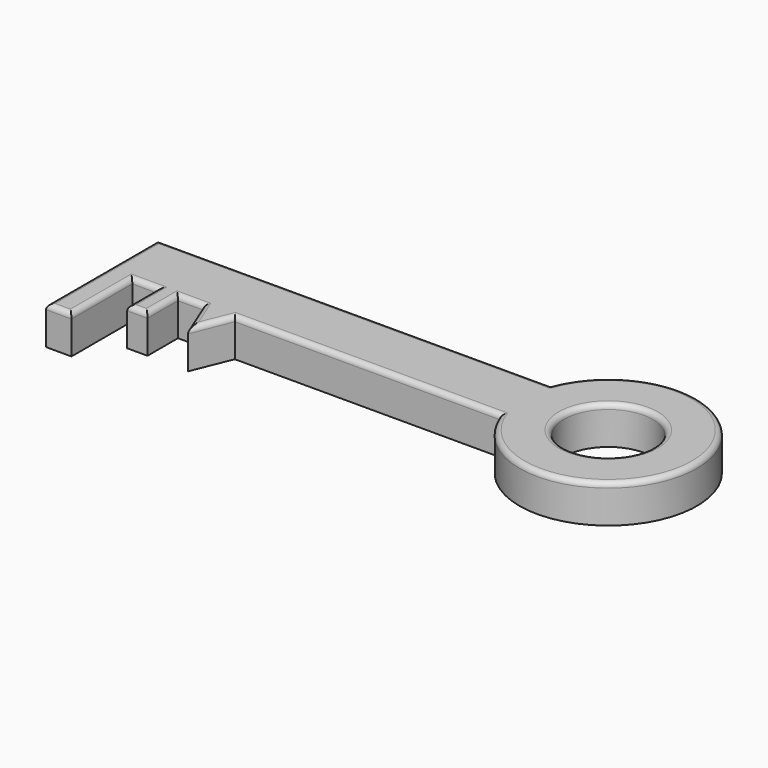
from build123d import *

# Parameters (mm, degrees)
F0_R     = 17.5
F0_W     = 10
F0_H     = 30
F0_W_2   = 8
F0_H_2   = 15
F1_DEPTH = 15
F2_R     = 2


with BuildPart() as f1:
    # F0 (on Top) → F1 (new body)
    with BuildSketch(Plane.XY):
        Polygon((70.049999, 32.850001), (-84.950001, 32.850001), (-84.950001, 7.850001), (-74.950001, 7.850001), (-64.950001, 7.850001), (-56.950001, 7.850001), (-46.950001, 7.850001), (-34.520773, 7.850001), (70.049999, 7.850001), align=None)
        with BuildLine():
            ThreePointArc((70.049999, 7.850001), (137.741741, 20.350001), (70.049999, 32.850001))
            Line((70.049999, 32.850001), (70.049999, 7.850001))
        make_face()
        with Locations((102.741741, 20.350001)):
            Circle(F0_R, mode=Mode.SUBTRACT)
        with Locations((-79.950001, -7.149999)):
            Rectangle(F0_W, F0_H)
        Polygon((-40.735387, -7.49211), (-34.520773, 7.850001), (-46.950001, 7.850001), align=None)
        with Locations((-60.950001, 0.350001)):
            Rectangle(F0_W_2, F0_H_2)
    extrude(amount=F1_DEPTH)

    # F2
    f2_edges = [f1.edges().sort_by_distance(p)[0] for p in [
        (-7.450001, 32.850001, 15),
        (-84.950001, 5.350001, 15),
        (-79.950001, -22.149999, 15),
        (-74.950001, -7.149999, 15),
        (-69.950001, 7.850001, 15),
        (-64.950001, 0.350001, 15),
        (-60.950001, -7.149999, 15),
        (-56.950001, 0.350001, 15),
        (-51.950001, 7.850001, 15),
        (-43.842694, 0.178945, 15),
        (-37.62808, 0.178945, 15),
        (17.764613, 7.850001, 15),
        (137.741741, 20.350001, 15),
        (85.241741, 20.350001, 15),
    ]]
    fillet(f2_edges, radius=F2_R)


solid = f1.part
